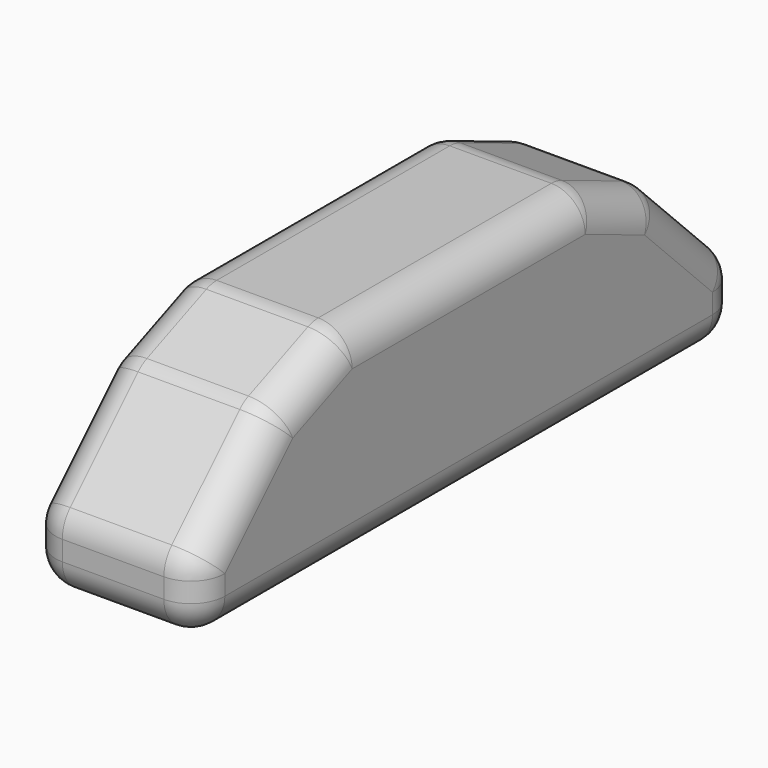
from build123d import *

# Parameters (mm, degrees)
F0_W     = 10
F0_H     = 12
F1_DEPTH = 20
F2_W     = 2.8
F2_H     = 16
F3_DEPTH = 9.5
F4_SIZE  = 8
F5_SIZE  = 3
F6_R     = 2


with BuildPart() as f1:
    # F0 (on Front) → F1 (new body, symmetric)
    with BuildSketch(Plane.XZ):
        Rectangle(F0_W, F0_H)
    extrude(amount=F1_DEPTH, both=True)

    # F2 (on face) → F3 (cut)
    with BuildSketch(Plane(origin=(0, 0, -6), x_dir=(1, 0, 0), z_dir=(0, 0, -1))):
        Rectangle(F2_W, F2_H)
    extrude(amount=-F3_DEPTH, mode=Mode.SUBTRACT)

    # F4
    f4_edges = [f1.edges().sort_by_distance(p)[0] for p in [
        (0, -20, 6),
        (0, 20, 6),
    ]]
    chamfer(f4_edges, length=F4_SIZE)

    # F5
    f5_edges = [f1.edges().sort_by_distance(p)[0] for p in [
        (0, -12, 6),
        (0, 12, 6),
    ]]
    chamfer(f5_edges, length=F5_SIZE)

    # F6
    f6_edges = [f1.edges().sort_by_distance(p)[0] for p in [
        (5, 17.06066, 0.93934),
        (5, 11.56066, 4.93934),
        (5, 20, -4),
        (5, 0, 6),
        (5, 0, -6),
        (5, -11.56066, 4.93934),
        (5, -20, -4),
        (5, -17.06066, 0.93934),
        (-5, 0, 6),
        (-5, 11.56066, 4.93934),
        (-5, -11.56066, 4.93934),
        (-5, 17.06066, 0.93934),
        (-5, -17.06066, 0.93934),
        (-5, 20, -4),
        (-5, -20, -4),
        (-5, 0, -6),
        (0, -20, -6),
        (0, 20, -6),
        (0, 20, -2),
        (0, 14.12132, 3.87868),
        (0, 9, 6),
        (0, -9, 6),
        (0, -14.12132, 3.87868),
        (0, -20, -2),
    ]]
    fillet(f6_edges, radius=F6_R)


solid = f1.part
